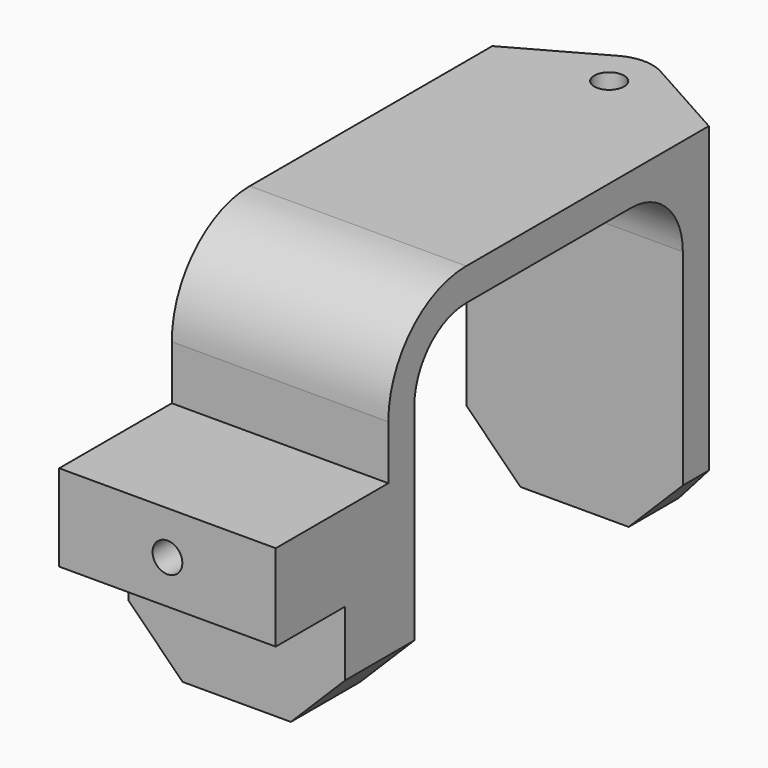
from build123d import *

# Parameters (mm, degrees)
PAD_DEPTH       = 10
SKETCH001_R     = 1.375
POCKET_DEPTH    = 10
PAD001_DEPTH    = 33
SKETCH003_R     = 1.375
POCKET001_DEPTH = 10
SKETCH004_R     = 1.375
POCKET002_DEPTH = 10
FILLET_1_R      = 9
FILLET_2_R      = 6
CHAMFER_SIZE    = 5


with BuildPart() as part:
    # Sketch → Pad (new body, symmetric)
    with BuildSketch(Plane.YZ):
        Polygon((4, 4), (17, 4), (17, 18), (54, 18), (54, -15), (51, -15), (51, 15), (20, 15), (20, -15), (12, -15), (12, -4), (4, -4), align=None)
    extrude(amount=PAD_DEPTH, both=True)

    # Sketch001 → Pocket (cut)
    with BuildSketch(Plane(origin=(0, 4, 0), x_dir=(0, 0, -1), z_dir=(0, -1, 0))):
        Circle(SKETCH001_R)
    extrude(amount=-POCKET_DEPTH, mode=Mode.SUBTRACT)

    # Sketch002 → Pad001 (new body)
    with BuildSketch(Plane(origin=(0, 0, 18), x_dir=(0, -1, 0), z_dir=(0, 0, 1))):
        with BuildLine():
            ThreePointArc((-58.492889, 1.949289), (-59, 0), (-58.492889, -1.949289))
            Line((-54, -10), (-58.492889, -1.949289))
            Line((-54, 10), (-54, -10))
            Line((-58.492889, 1.949289), (-54, 10))
        make_face()
    extrude(amount=-PAD001_DEPTH)

    # Sketch003 → Pocket001 (cut)
    with BuildSketch(Plane(origin=(0, 0, 18), x_dir=(0, -1, 0), z_dir=(0, 0, 1))):
        with Locations((-55, 0)):
            Circle(SKETCH003_R)
    extrude(amount=-POCKET001_DEPTH, mode=Mode.SUBTRACT)

    # Sketch004 → Pocket002 (cut)
    with BuildSketch(Plane.YX.offset(15)):
        with Locations((55, 0)):
            Circle(SKETCH004_R)
        with Locations((16, 0)):
            Circle(SKETCH004_R)
    extrude(amount=-POCKET002_DEPTH, mode=Mode.SUBTRACT)

    # Fillet 1
    fillet_1_edges = [part.edges().sort_by_distance(p)[0] for p in [
        (0, 17, 18),
    ]]
    fillet(fillet_1_edges, radius=FILLET_1_R)

    # Fillet 2
    fillet_2_edges = [part.edges().sort_by_distance(p)[0] for p in [
        (0, 20, 15),
        (0, 51, 15),
    ]]
    fillet(fillet_2_edges, radius=FILLET_2_R)

    # Chamfer
    chamfer_edges = [part.edges().sort_by_distance(p)[0] for p in [
        (-10, 52.5, -15),
        (-10, 16, -15),
        (10, 52.5, -15),
        (10, 16, -15),
    ]]
    chamfer(chamfer_edges, length=CHAMFER_SIZE)


solid = part.part
